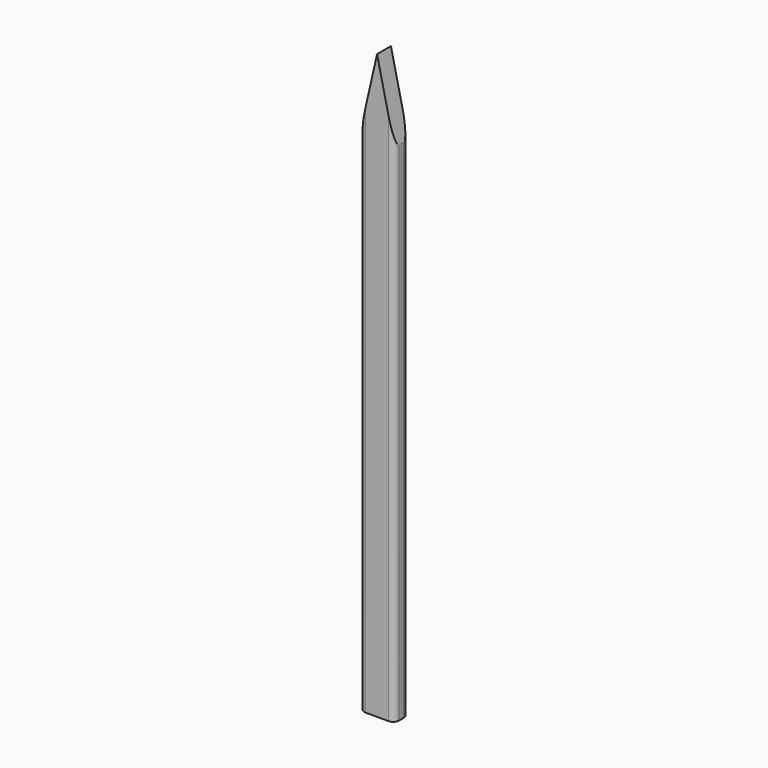
from build123d import *

# Parameters (mm, degrees)
F1_DEPTH = 15.24
F2_R     = 5.08


with BuildPart() as f1:
    # F0 (on Front) → F1 (new body)
    with BuildSketch(Plane.XZ):
        Polygon((40.868418, 139.168173), (25.614712, 71.951434), (25.614712, -372.762531), (56.122124, -372.762531), (56.122124, 71.951434), align=None)
    extrude(amount=F1_DEPTH)

    # F2
    f2_edges = [f1.edges().sort_by_distance(p)[0] for p in [
        (56.122124, -15.24, -150.405549),
        (25.614712, 0, -150.405549),
        (25.614712, -15.24, -150.405549),
        (56.122124, 0, -150.405549),
    ]]
    fillet(f2_edges, radius=F2_R)


solid = f1.part
